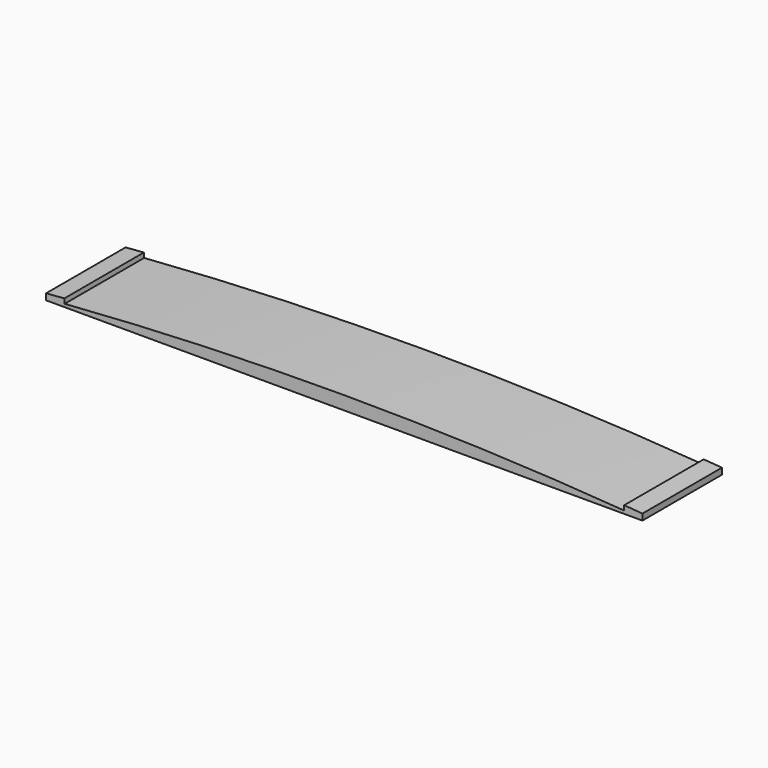
from build123d import *

# Parameters (mm, degrees)
F1_DEPTH = 406.4


with BuildPart() as f1:
    # F0 (on Front) → F1 (new body)
    with BuildSketch(Plane.XZ):
        with BuildLine():
            Line((2363.858265, 31.252416), (2362.429229, 12.256092))
            ThreePointArc((2362.429229, 12.256092), (1219.2, 55.196279), (75.970771, 12.256092))
            Line((75.970771, 12.256092), (74.541735, 31.252416))
            ThreePointArc((74.541735, 31.252416), (37.26732, 28.402452), (0, 25.461177))
            Line((0, 25.461177), (0, 6.35))
            Line((0, 6.35), (0, 0))
            Line((0, 0), (2438.4, 0))
            Line((2438.4, 0), (2438.4, 6.35))
            Line((2438.4, 6.35), (2438.4, 25.461177))
            ThreePointArc((2438.4, 25.461177), (2401.13268, 28.402452), (2363.858265, 31.252416))
        make_face()
    extrude(amount=-F1_DEPTH)


solid = f1.part
